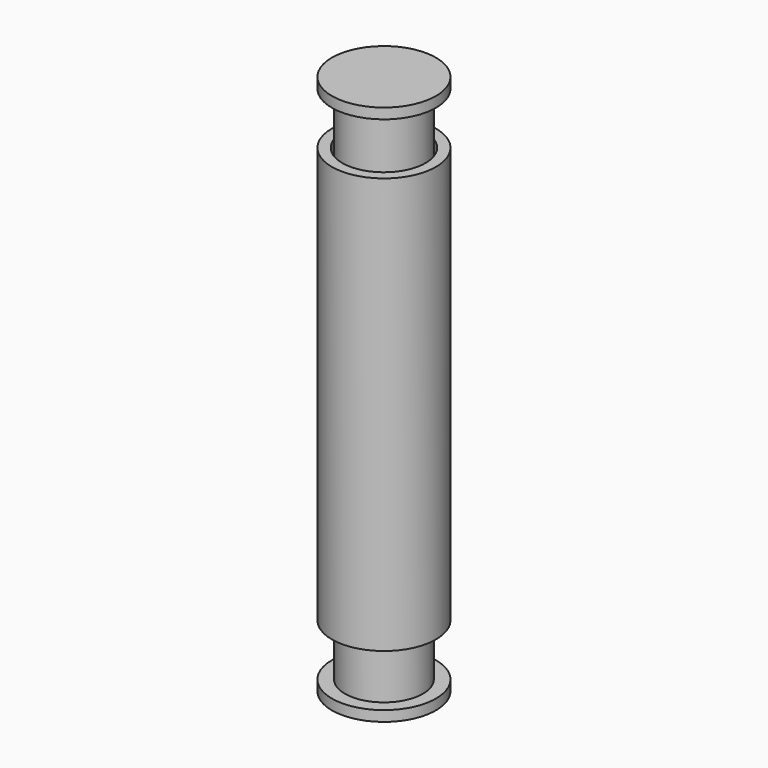
from build123d import *

# Parameters (mm, degrees)
F0_W   = 9.525
F0_H   = 63.5
F0_W_2 = 2.54
F0_H_2 = 50.8


with BuildPart() as f1:
    # F0 (on Front) → F1 (revolve)
    with BuildSketch(Plane.XZ):
        with Locations((-4.7625, 31.75)):
            Rectangle(F0_W, F0_H)
        Polygon((0, -31.75), (0, 0), (-9.525, 0), (-9.525, -31.7036), align=None)
        Polygon((0, -63.5), (0, -31.75), (-9.525, -31.7036), (-9.525, -63.5), align=None)
    revolve(axis=Axis((0, 0, 31.75), (0, 0, 1)))

    # F0 (on Front) → F2 (revolve)
    with BuildSketch(Plane.XZ):
        Polygon((-9.525, 63.5), (0, 63.5), (0, 66.04), (-12.7, 66.04), (-12.7, 63.5), align=None)
    revolve(axis=Axis((0, 0, 64.77), (0, 0, 1)))

    # F0 (on Front) → F3 (revolve)
    with BuildSketch(Plane.XZ):
        Polygon((0, -66.04), (0, -63.5), (-9.525, -63.5), (-12.7, -63.5), (-12.7, -66.04), align=None)
    revolve(axis=Axis((0, 0, -64.77), (0, 0, -1)))


with BuildPart() as f4:
    # F0 (on Front) → F4 (revolve)
    with BuildSketch(Plane.XZ):
        with Locations((-11.429849, 25.4)):
            Rectangle(F0_W_2, F0_H_2)
        Polygon((-12.699849, -31.688134), (-10.159849, -31.700507), (-10.159849, 0), (-12.699849, 0), align=None)
        Polygon((-10.159849, -50.8), (-10.159849, -31.700507), (-12.699849, -31.688134), (-12.699849, -50.8), align=None)
    revolve(axis=Axis((0, 0, 31.75), (0, 0, 1)))


solid = Compound([f1.part, f4.part])
